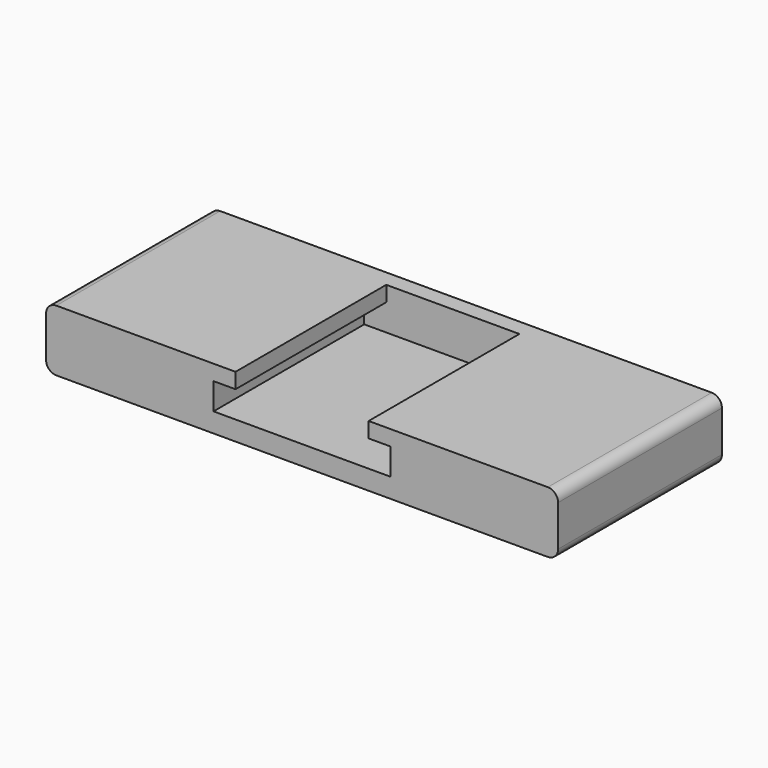
from build123d import *

# Parameters (mm, degrees)
F0_W     = 50
F0_H     = 20
F1_DEPTH = 6
F2_W     = 13
F2_H     = 1.5
F3_DEPTH = 18.4
F4_R     = 1


with BuildPart() as f1:
    # F0 (on Top) → F1 (new body)
    with BuildSketch(Plane.XY):
        with Locations((25, 10)):
            Rectangle(F0_W, F0_H)
    extrude(amount=F1_DEPTH)

    # F2 (on face) → F3 (cut, through all)
    with BuildSketch(Plane.XZ):
        Polygon((18.5, 4.5), (16.35, 4.5), (16.35, 1.9), (33.65, 1.9), (33.65, 4.5), (31.5, 4.5), align=None)
        with Locations((25, 5.25)):
            Rectangle(F2_W, F2_H)
    extrude(amount=-F3_DEPTH, mode=Mode.SUBTRACT)

    # F4
    f4_edges = [f1.edges().sort_by_distance(p)[0] for p in [
        (50, 10, 6),
        (50, 10, 0),
        (0, 10, 0),
        (0, 10, 6),
    ]]
    fillet(f4_edges, radius=F4_R)


solid = f1.part
